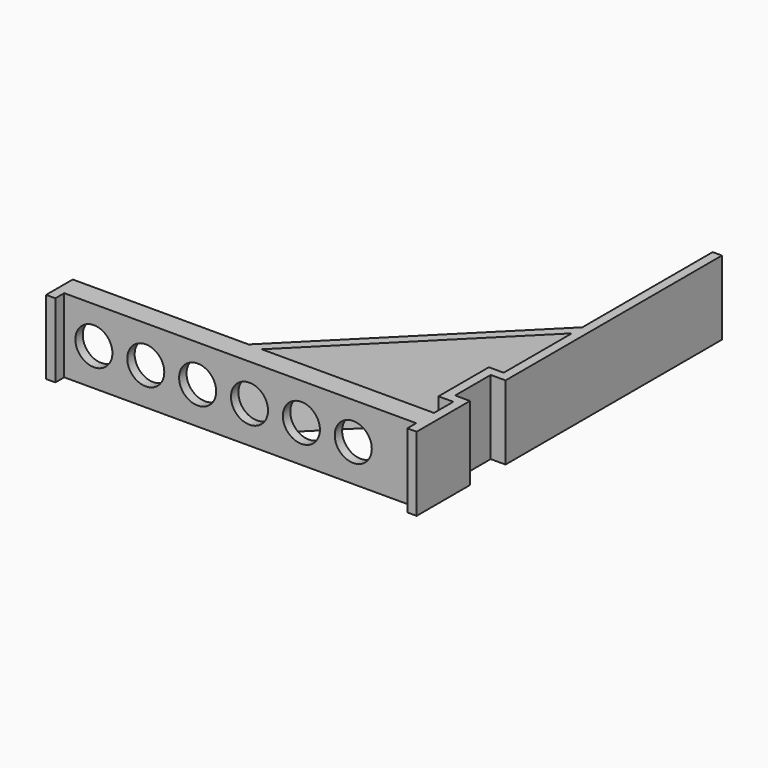
from build123d import *

# Parameters (mm, degrees)
PAD_DEPTH           = 20
SKETCH002_W         = 100
SKETCH002_H         = 20
SKETCH002_W_2       = 96
SKETCH002_H_2       = 16
PAD001_DEPTH        = 6
SKETCH001_R         = 5
POCKET_DEPTH        = 2.5
LINEARPATTERN_COUNT = 6
LINEARPATTERN_PITCH = 14


with BuildPart() as part:
    # Sketch → Pad (new body)
    with BuildSketch(Plane.XY):
        Polygon((0, 100), (0, 27), (-4, 27), (-4, 15), (0, 15), (0, -3), (-2.5, -3), (-2.5, 0), (-97.5, 0), (-97.5, -3), (-100, -3), (-100, 2.5), (-56.035534, 2.5), (-2.5, 56.035534), (-2.5, 100), align=None)
        Polygon((-52.5, 2.5), (-2.5, 2.5), (-2.5, 12.5), (-6.5, 12.5), (-6.5, 29.5), (-2.5, 29.5), (-2.5, 52.5), align=None, mode=Mode.SUBTRACT)
    extrude(amount=PAD_DEPTH)

    # Sketch002 → Pad001 (join)
    with BuildSketch(Plane.XZ):
        with Locations((-50, 10)):
            Rectangle(SKETCH002_W, SKETCH002_H)
        with Locations((-50, 10)):
            Rectangle(SKETCH002_W_2, SKETCH002_H_2, mode=Mode.SUBTRACT)
    extrude(amount=-PAD001_DEPTH)

    # Sketch001 → Pocket (cut)
    with BuildSketch(Plane.XZ):
        with Locations((-89.5, 10)):
            Circle(SKETCH001_R)
    pocket = extrude(amount=-POCKET_DEPTH, mode=Mode.SUBTRACT)

    # LinearPattern: Pocket ×6
    with Locations(*[(i * LINEARPATTERN_PITCH, 0, 0) for i in range(1, LINEARPATTERN_COUNT)]):
        add(pocket, mode=Mode.SUBTRACT)


solid = part.part
